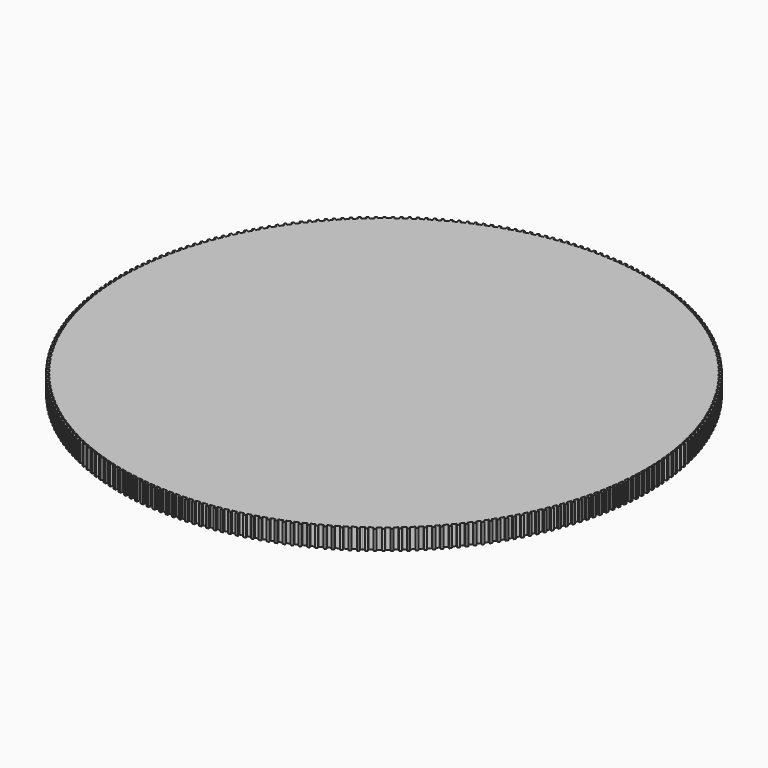
from build123d import *

# Parameters (mm, degrees)
F1_DEPTH = 6


with BuildPart() as f1:
    # F0 (on Top) → F1 (new body)
    with BuildSketch(Plane.XY):
        Polygon((0, -80.2141), (0.349991, -80.211), (0.349991, -79.461), (1.38683, -79.452), (1.63113, -79.4456), (1.64983, -80.1953), (2.34959, -80.177), (2.33089, -79.4273), (2.77325, -79.4157), (3.61121, -79.3791), (3.64859, -80.1281), (4.19807, -80.1042), (4.34781, -80.095), (4.31042, -79.3459), (5.58925, -79.2669), (5.64529, -80.0148), (6.34314, -79.9598), (6.28709, -79.212), (6.92575, -79.1617), (7.56343, -79.1003), (7.63809, -79.8466), (8.33488, -79.7795), (8.26021, -79.0332), (9.53333, -78.889), (9.62659, -79.6332), (9.77563, -79.6162), (10.3209, -79.5444), (10.2277, -78.8002), (11.0592, -78.6908), (11.4969, -78.6253), (11.6087, -79.3669), (12.301, -79.2635), (12.1892, -78.5219), (12.4309, -78.4857), (13.4536, -78.3146), (13.5838, -79.0532), (13.929, -78.9955), (14.2732, -78.9317), (14.1429, -78.1931), (15.1625, -78.0041), (15.4019, -77.9554), (15.5505, -78.6905), (16.2365, -78.5509), (16.0879, -77.8158), (16.5215, -77.7276), (17.3404, -77.5461), (17.5073, -78.2773), (18.0442, -78.1582), (18.1901, -78.1232), (18.0232, -77.392), (19.2689, -77.0921), (19.4539, -77.8189), (20.1317, -77.6436), (19.9466, -76.9168), (20.5668, -76.7564), (21.1841, -76.5852), (21.3873, -77.3072), (22.0618, -77.1201), (21.8587, -76.3981), (23.0874, -76.035), (23.3085, -76.7517), (23.4523, -76.7091), (23.9769, -76.5437), (23.7558, -75.8271), (24.5557, -75.5748), (24.9754, -75.4344), (25.2142, -76.1453), (25.8781, -75.9232), (25.6392, -75.2123), (25.871, -75.1348), (26.8484, -74.7887), (27.1049, -75.4934), (27.4348, -75.3766), (27.7627, -75.254), (27.5062, -74.5492), (28.4774, -74.1861), (28.7048, -74.0965), (28.9787, -74.7947), (29.6301, -74.5381), (29.356, -73.84), (29.7678, -73.6778), (30.5427, -73.3568), (30.834, -74.0479), (31.3421, -73.8375), (31.4797, -73.7776), (31.1884, -73.0865), (32.3631, -72.5749), (32.6715, -73.2585), (33.3085, -72.9682), (33, -72.2846), (33.583, -72.0189), (34.1612, -71.7431), (34.4866, -72.4188), (35.1184, -72.1175), (34.793, -71.4418), (35.94, -70.8708), (36.2822, -71.5382), (36.4164, -71.4713), (36.9043, -71.2173), (36.5621, -70.5499), (37.3061, -70.1626), (37.695, -69.9515), (38.0537, -70.6101), (38.6689, -70.2761), (38.3102, -69.6175), (38.5249, -69.5009), (39.4274, -68.9903), (39.8024, -69.6398), (40.107, -69.4674), (40.4086, -69.2898), (40.0336, -68.6403), (40.927, -68.114), (41.1354, -67.9863), (41.5265, -68.6263), (42.1233, -68.2605), (41.7323, -67.6206), (42.1095, -67.3894), (42.8169, -66.9387), (43.2238, -67.5687), (43.6877, -67.2732), (43.8128, -67.1904), (43.4059, -66.5604), (44.4739, -65.8525), (44.8963, -66.4722), (45.4732, -66.0757), (45.0508, -65.456), (45.5787, -65.0932), (46.1003, -64.7212), (46.5381, -65.3301), (47.108, -64.9236), (46.6702, -64.3147), (47.7006, -63.5532), (48.1535, -64.151), (48.274, -64.0618), (48.7104, -63.727), (48.2576, -63.1292), (48.923, -62.6185), (49.2693, -62.3431), (49.7369, -62.9294), (50.2847, -62.4937), (49.8171, -61.9073), (50.0084, -61.7552), (50.8084, -61.0957), (51.2905, -61.6702), (51.5606, -61.4476), (51.8268, -61.2202), (51.3447, -60.6457), (52.1331, -59.9723), (52.3162, -59.8104), (52.8124, -60.3727), (53.3367, -59.9088), (52.8404, -59.3465), (53.1718, -59.0533), (53.7902, -58.4867), (54.3004, -59.0365), (54.7059, -58.6649), (54.8147, -58.5616), (54.3046, -58.0118), (55.2334, -57.1293), (55.757, -57.6661), (56.2563, -57.1755), (55.7327, -56.6386), (56.1896, -56.1896), (56.6386, -55.7327), (57.1755, -56.2563), (57.6661, -55.757), (57.1293, -55.2334), (58.0118, -54.3046), (58.5616, -54.8147), (58.6649, -54.7059), (59.0365, -54.3004), (58.4867, -53.7902), (59.0533, -53.1718), (59.3465, -52.8404), (59.9088, -53.3367), (60.3727, -52.8124), (59.8104, -52.3162), (59.9723, -52.1331), (60.6457, -51.3447), (61.2202, -51.8268), (61.4476, -51.5606), (61.6702, -51.2905), (61.0957, -50.8084), (61.7552, -50.0084), (61.9073, -49.8171), (62.4937, -50.2847), (62.9294, -49.7369), (62.3431, -49.2693), (62.6185, -48.923), (63.1292, -48.2576), (63.727, -48.7104), (64.0618, -48.274), (64.151, -48.1535), (63.5532, -47.7006), (64.3147, -46.6702), (64.9236, -47.108), (65.3301, -46.5381), (64.7212, -46.1003), (65.0932, -45.5787), (65.456, -45.0508), (66.0757, -45.4732), (66.4722, -44.8963), (65.8525, -44.4739), (66.5604, -43.4059), (67.1904, -43.8128), (67.2732, -43.6877), (67.5687, -43.2238), (66.9387, -42.8169), (67.3894, -42.1095), (67.6206, -41.7323), (68.2605, -42.1233), (68.6263, -41.5265), (67.9863, -41.1354), (68.114, -40.927), (68.6403, -40.0336), (69.2898, -40.4086), (69.4674, -40.107), (69.6398, -39.8024), (68.9903, -39.4274), (69.5009, -38.5249), (69.6175, -38.3102), (70.2761, -38.6689), (70.6101, -38.0537), (69.9515, -37.695), (70.1626, -37.3061), (70.5499, -36.5621), (71.2173, -36.9043), (71.4713, -36.4164), (71.5382, -36.2822), (70.8708, -35.94), (71.4418, -34.793), (72.1175, -35.1184), (72.4188, -34.4866), (71.7431, -34.1612), (72.0189, -33.583), (72.2846, -33), (72.9682, -33.3085), (73.2585, -32.6715), (72.5749, -32.3631), (73.0865, -31.1884), (73.7776, -31.4797), (73.8375, -31.3421), (74.0479, -30.834), (73.3568, -30.5427), (73.6778, -29.7678), (73.84, -29.356), (74.5381, -29.6301), (74.7947, -28.9787), (74.0965, -28.7048), (74.1861, -28.4774), (74.5492, -27.5062), (75.254, -27.7627), (75.3766, -27.4348), (75.4934, -27.1049), (74.7887, -26.8484), (75.1348, -25.871), (75.2123, -25.6392), (75.9232, -25.8781), (76.1453, -25.2142), (75.4344, -24.9754), (75.5748, -24.5557), (75.8271, -23.7558), (76.5437, -23.9769), (76.7091, -23.4523), (76.7517, -23.3085), (76.035, -23.0874), (76.3981, -21.8587), (77.1201, -22.0618), (77.3072, -21.3873), (76.5852, -21.1841), (76.7564, -20.5668), (76.9168, -19.9466), (77.6436, -20.1317), (77.8189, -19.4539), (77.0921, -19.2689), (77.392, -18.0232), (78.1232, -18.1901), (78.1582, -18.0442), (78.2773, -17.5073), (77.5461, -17.3404), (77.7276, -16.5215), (77.8158, -16.0879), (78.5509, -16.2365), (78.6905, -15.5505), (77.9554, -15.4019), (78.0041, -15.1625), (78.1931, -14.1429), (78.9317, -14.2732), (78.9955, -13.929), (79.0532, -13.5838), (78.3146, -13.4536), (78.4857, -12.4309), (78.5219, -12.1892), (79.2635, -12.301), (79.3669, -11.6087), (78.6253, -11.4969), (78.6908, -11.0592), (78.8002, -10.2277), (79.5444, -10.3209), (79.6162, -9.77563), (79.6332, -9.62659), (78.889, -9.53333), (79.0332, -8.26021), (79.7795, -8.33488), (79.8466, -7.63809), (79.1003, -7.56343), (79.1617, -6.92575), (79.212, -6.28709), (79.9598, -6.34314), (80.0148, -5.64529), (79.2669, -5.58925), (79.3459, -4.31042), (80.095, -4.34781), (80.1042, -4.19807), (80.1281, -3.64859), (79.3791, -3.61121), (79.4157, -2.77325), (79.4273, -2.33089), (80.177, -2.34959), (80.1953, -1.64983), (79.4456, -1.63113), (79.452, -1.38683), (79.461, -0.349991), (80.211, -0.349991), (80.2141, 0), (80.211, 0.349991), (79.461, 0.349991), (79.452, 1.38683), (79.4456, 1.63113), (80.1953, 1.64983), (80.177, 2.34959), (79.4273, 2.33089), (79.4157, 2.77325), (79.3791, 3.61121), (80.1281, 3.64859), (80.1042, 4.19807), (80.095, 4.34781), (79.3459, 4.31042), (79.2669, 5.58925), (80.0148, 5.64529), (79.9598, 6.34314), (79.212, 6.28709), (79.1617, 6.92575), (79.1003, 7.56343), (79.8466, 7.63809), (79.7795, 8.33488), (79.0332, 8.26021), (78.889, 9.53333), (79.6332, 9.62659), (79.6162, 9.77563), (79.5444, 10.3209), (78.8002, 10.2277), (78.6908, 11.0592), (78.6253, 11.4969), (79.3669, 11.6087), (79.2635, 12.301), (78.5219, 12.1892), (78.4857, 12.4309), (78.3146, 13.4536), (79.0532, 13.5838), (78.9955, 13.929), (78.9317, 14.2732), (78.1931, 14.1429), (78.0041, 15.1625), (77.9554, 15.4019), (78.6905, 15.5505), (78.5509, 16.2365), (77.8158, 16.0879), (77.7276, 16.5215), (77.5461, 17.3404), (78.2773, 17.5073), (78.1582, 18.0442), (78.1232, 18.1901), (77.392, 18.0232), (77.0921, 19.2689), (77.8189, 19.4539), (77.6436, 20.1317), (76.9168, 19.9466), (76.7564, 20.5668), (76.5852, 21.1841), (77.3072, 21.3873), (77.1201, 22.0618), (76.3981, 21.8587), (76.035, 23.0874), (76.7517, 23.3085), (76.7091, 23.4523), (76.5437, 23.9769), (75.8271, 23.7558), (75.5748, 24.5557), (75.4344, 24.9754), (76.1453, 25.2142), (75.9232, 25.8781), (75.2123, 25.6392), (75.1348, 25.871), (74.7887, 26.8484), (75.4934, 27.1049), (75.3766, 27.4348), (75.254, 27.7627), (74.5492, 27.5062), (74.1861, 28.4774), (74.0965, 28.7048), (74.7947, 28.9787), (74.5381, 29.6301), (73.84, 29.356), (73.6778, 29.7678), (73.3568, 30.5427), (74.0479, 30.834), (73.8375, 31.3421), (73.7776, 31.4797), (73.0865, 31.1884), (72.5749, 32.3631), (73.2585, 32.6715), (72.9682, 33.3085), (72.2846, 33), (72.0189, 33.583), (71.7431, 34.1612), (72.4188, 34.4866), (72.1175, 35.1184), (71.4418, 34.793), (70.8708, 35.94), (71.5382, 36.2822), (71.4713, 36.4164), (71.2173, 36.9043), (70.5499, 36.5621), (70.1626, 37.3061), (69.9515, 37.695), (70.6101, 38.0537), (70.2761, 38.6689), (69.6175, 38.3102), (69.5009, 38.5249), (68.9903, 39.4274), (69.6398, 39.8024), (69.4674, 40.107), (69.2898, 40.4086), (68.6403, 40.0336), (68.114, 40.927), (67.9863, 41.1354), (68.6263, 41.5265), (68.2605, 42.1233), (67.6206, 41.7323), (67.3894, 42.1095), (66.9387, 42.8169), (67.5687, 43.2238), (67.2732, 43.6877), (67.1904, 43.8128), (66.5604, 43.4059), (65.8525, 44.4739), (66.4722, 44.8963), (66.0757, 45.4732), (65.456, 45.0508), (65.0932, 45.5787), (64.7212, 46.1003), (65.3301, 46.5381), (64.9236, 47.108), (64.3147, 46.6702), (63.5532, 47.7006), (64.151, 48.1535), (64.0618, 48.274), (63.727, 48.7104), (63.1292, 48.2576), (62.6185, 48.923), (62.3431, 49.2693), (62.9294, 49.7369), (62.4937, 50.2847), (61.9073, 49.8171), (61.7552, 50.0084), (61.0957, 50.8084), (61.6702, 51.2905), (61.4476, 51.5606), (61.2202, 51.8268), (60.6457, 51.3447), (59.9723, 52.1331), (59.8104, 52.3162), (60.3727, 52.8124), (59.9088, 53.3367), (59.3465, 52.8404), (59.0533, 53.1718), (58.4867, 53.7902), (59.0365, 54.3004), (58.6649, 54.7059), (58.5616, 54.8147), (58.0118, 54.3046), (57.1293, 55.2334), (57.6661, 55.757), (57.1755, 56.2563), (56.6386, 55.7327), (56.1896, 56.1896), (55.7327, 56.6386), (56.2563, 57.1755), (55.757, 57.6661), (55.2334, 57.1293), (54.3046, 58.0118), (54.8147, 58.5616), (54.7059, 58.6649), (54.3004, 59.0365), (53.7902, 58.4867), (53.1718, 59.0533), (52.8404, 59.3465), (53.3367, 59.9088), (52.8124, 60.3727), (52.3162, 59.8104), (52.1331, 59.9723), (51.3447, 60.6457), (51.8268, 61.2202), (51.5606, 61.4476), (51.2905, 61.6702), (50.8084, 61.0957), (50.0084, 61.7552), (49.8171, 61.9073), (50.2847, 62.4937), (49.7369, 62.9294), (49.2693, 62.3431), (48.923, 62.6185), (48.2576, 63.1292), (48.7104, 63.727), (48.274, 64.0618), (48.1535, 64.151), (47.7006, 63.5532), (46.6702, 64.3147), (47.108, 64.9236), (46.5381, 65.3301), (46.1003, 64.7212), (45.5787, 65.0932), (45.0508, 65.456), (45.4732, 66.0757), (44.8963, 66.4722), (44.4739, 65.8525), (43.4059, 66.5604), (43.8128, 67.1904), (43.6877, 67.2732), (43.2238, 67.5687), (42.8169, 66.9387), (42.1095, 67.3894), (41.7323, 67.6206), (42.1233, 68.2605), (41.5265, 68.6263), (41.1354, 67.9863), (40.927, 68.114), (40.0336, 68.6403), (40.4086, 69.2898), (40.107, 69.4674), (39.8024, 69.6398), (39.4274, 68.9903), (38.5249, 69.5009), (38.3102, 69.6175), (38.6689, 70.2761), (38.0537, 70.6101), (37.695, 69.9515), (37.3061, 70.1626), (36.5621, 70.5499), (36.9043, 71.2173), (36.4164, 71.4713), (36.2822, 71.5382), (35.94, 70.8708), (34.793, 71.4418), (35.1184, 72.1175), (34.4866, 72.4188), (34.1612, 71.7431), (33.583, 72.0189), (33, 72.2846), (33.3085, 72.9682), (32.6715, 73.2585), (32.3631, 72.5749), (31.1884, 73.0865), (31.4797, 73.7776), (31.3421, 73.8375), (30.834, 74.0479), (30.5427, 73.3568), (29.7678, 73.6778), (29.356, 73.84), (29.6301, 74.5381), (28.9787, 74.7947), (28.7048, 74.0965), (28.4774, 74.1861), (27.5062, 74.5492), (27.7627, 75.254), (27.4348, 75.3766), (27.1049, 75.4934), (26.8484, 74.7887), (25.871, 75.1348), (25.6392, 75.2123), (25.8781, 75.9232), (25.2142, 76.1453), (24.9754, 75.4344), (24.5557, 75.5748), (23.7558, 75.8271), (23.9769, 76.5437), (23.4523, 76.7091), (23.3085, 76.7517), (23.0874, 76.035), (21.8587, 76.3981), (22.0618, 77.1201), (21.3873, 77.3072), (21.1841, 76.5852), (20.5668, 76.7564), (19.9466, 76.9168), (20.1317, 77.6436), (19.4539, 77.8189), (19.2689, 77.0921), (18.0232, 77.392), (18.1901, 78.1232), (18.0442, 78.1582), (17.5073, 78.2773), (17.3404, 77.5461), (16.5215, 77.7276), (16.0879, 77.8158), (16.2365, 78.5509), (15.5505, 78.6905), (15.4019, 77.9554), (15.1625, 78.0041), (14.1429, 78.1931), (14.2732, 78.9317), (13.929, 78.9955), (13.5838, 79.0532), (13.4536, 78.3146), (12.4309, 78.4857), (12.1892, 78.5219), (12.301, 79.2635), (11.6087, 79.3669), (11.4969, 78.6253), (11.0592, 78.6908), (10.2277, 78.8002), (10.3209, 79.5444), (9.77563, 79.6162), (9.62659, 79.6332), (9.53333, 78.889), (8.26021, 79.0332), (8.33488, 79.7795), (7.63809, 79.8466), (7.56343, 79.1003), (6.92575, 79.1617), (6.28709, 79.212), (6.34314, 79.9598), (5.64529, 80.0148), (5.58925, 79.2669), (4.31042, 79.3459), (4.34781, 80.095), (4.19807, 80.1042), (3.64859, 80.1281), (3.61121, 79.3791), (2.77325, 79.4157), (2.33089, 79.4273), (2.34959, 80.177), (1.64983, 80.1953), (1.63113, 79.4456), (1.38683, 79.452), (0.349991, 79.461), (0.349991, 80.211), (0, 80.2141), (-0.349991, 80.211), (-0.349991, 79.461), (-1.38683, 79.452), (-1.63113, 79.4456), (-1.64983, 80.1953), (-2.34959, 80.177), (-2.33089, 79.4273), (-2.77325, 79.4157), (-3.61121, 79.3791), (-3.64859, 80.1281), (-4.19807, 80.1042), (-4.34781, 80.095), (-4.31042, 79.3459), (-5.58925, 79.2669), (-5.64529, 80.0148), (-6.34314, 79.9598), (-6.28709, 79.212), (-6.92575, 79.1617), (-7.56343, 79.1003), (-7.63809, 79.8466), (-8.33488, 79.7795), (-8.26021, 79.0332), (-9.53333, 78.889), (-9.62659, 79.6332), (-9.77563, 79.6162), (-10.3209, 79.5444), (-10.2277, 78.8002), (-11.0592, 78.6908), (-11.4969, 78.6253), (-11.6087, 79.3669), (-12.301, 79.2635), (-12.1892, 78.5219), (-12.4309, 78.4857), (-13.4536, 78.3146), (-13.5838, 79.0532), (-13.929, 78.9955), (-14.2732, 78.9317), (-14.1429, 78.1931), (-15.1625, 78.0041), (-15.4019, 77.9554), (-15.5505, 78.6905), (-16.2365, 78.5509), (-16.0879, 77.8158), (-16.5215, 77.7276), (-17.3404, 77.5461), (-17.5073, 78.2773), (-18.0442, 78.1582), (-18.1901, 78.1232), (-18.0232, 77.392), (-19.2689, 77.0921), (-19.4539, 77.8189), (-20.1317, 77.6436), (-19.9466, 76.9168), (-20.5668, 76.7564), (-21.1841, 76.5852), (-21.3873, 77.3072), (-22.0618, 77.1201), (-21.8587, 76.3981), (-23.0874, 76.035), (-23.3085, 76.7517), (-23.4523, 76.7091), (-23.9769, 76.5437), (-23.7558, 75.8271), (-24.5557, 75.5748), (-24.9754, 75.4344), (-25.2142, 76.1453), (-25.8781, 75.9232), (-25.6392, 75.2123), (-25.871, 75.1348), (-26.8484, 74.7887), (-27.1049, 75.4934), (-27.4348, 75.3766), (-27.7627, 75.254), (-27.5062, 74.5492), (-28.4774, 74.1861), (-28.7048, 74.0965), (-28.9787, 74.7947), (-29.6301, 74.5381), (-29.356, 73.84), (-29.7678, 73.6778), (-30.5427, 73.3568), (-30.834, 74.0479), (-31.3421, 73.8375), (-31.4797, 73.7776), (-31.1884, 73.0865), (-32.3631, 72.5749), (-32.6715, 73.2585), (-33.3085, 72.9682), (-33, 72.2846), (-33.583, 72.0189), (-34.1612, 71.7431), (-34.4866, 72.4188), (-35.1184, 72.1175), (-34.793, 71.4418), (-35.94, 70.8708), (-36.2822, 71.5382), (-36.4164, 71.4713), (-36.9043, 71.2173), (-36.5621, 70.5499), (-37.3061, 70.1626), (-37.695, 69.9515), (-38.0537, 70.6101), (-38.6689, 70.2761), (-38.3102, 69.6175), (-38.5249, 69.5009), (-39.4274, 68.9903), (-39.8024, 69.6398), (-40.107, 69.4674), (-40.4086, 69.2898), (-40.0336, 68.6403), (-40.927, 68.114), (-41.1354, 67.9863), (-41.5265, 68.6263), (-42.1233, 68.2605), (-41.7323, 67.6206), (-42.1095, 67.3894), (-42.8169, 66.9387), (-43.2238, 67.5687), (-43.6877, 67.2732), (-43.8128, 67.1904), (-43.4059, 66.5604), (-44.4739, 65.8525), (-44.8963, 66.4722), (-45.4732, 66.0757), (-45.0508, 65.456), (-45.5787, 65.0932), (-46.1003, 64.7212), (-46.5381, 65.3301), (-47.108, 64.9236), (-46.6702, 64.3147), (-47.7006, 63.5532), (-48.1535, 64.151), (-48.274, 64.0618), (-48.7104, 63.727), (-48.2576, 63.1292), (-48.923, 62.6185), (-49.2693, 62.3431), (-49.7369, 62.9294), (-50.2847, 62.4937), (-49.8171, 61.9073), (-50.0084, 61.7552), (-50.8084, 61.0957), (-51.2905, 61.6702), (-51.5606, 61.4476), (-51.8268, 61.2202), (-51.3447, 60.6457), (-52.1331, 59.9723), (-52.3162, 59.8104), (-52.8124, 60.3727), (-53.3367, 59.9088), (-52.8404, 59.3465), (-53.1718, 59.0533), (-53.7902, 58.4867), (-54.3004, 59.0365), (-54.7059, 58.6649), (-54.8147, 58.5616), (-54.3046, 58.0118), (-55.2334, 57.1293), (-55.757, 57.6661), (-56.2563, 57.1755), (-55.7327, 56.6386), (-56.1896, 56.1896), (-56.6386, 55.7327), (-57.1755, 56.2563), (-57.6661, 55.757), (-57.1293, 55.2334), (-58.0118, 54.3046), (-58.5616, 54.8147), (-58.6649, 54.7059), (-59.0365, 54.3004), (-58.4867, 53.7902), (-59.0533, 53.1718), (-59.3465, 52.8404), (-59.9088, 53.3367), (-60.3727, 52.8124), (-59.8104, 52.3162), (-59.9723, 52.1331), (-60.6457, 51.3447), (-61.2202, 51.8268), (-61.4476, 51.5606), (-61.6702, 51.2905), (-61.0957, 50.8084), (-61.7552, 50.0084), (-61.9073, 49.8171), (-62.4937, 50.2847), (-62.9294, 49.7369), (-62.3431, 49.2693), (-62.6185, 48.923), (-63.1292, 48.2576), (-63.727, 48.7104), (-64.0618, 48.274), (-64.151, 48.1535), (-63.5532, 47.7006), (-64.3147, 46.6702), (-64.9236, 47.108), (-65.3301, 46.5381), (-64.7212, 46.1003), (-65.0932, 45.5787), (-65.456, 45.0508), (-66.0757, 45.4732), (-66.4722, 44.8963), (-65.8525, 44.4739), (-66.5604, 43.4059), (-67.1904, 43.8128), (-67.2732, 43.6877), (-67.5687, 43.2238), (-66.9387, 42.8169), (-67.3894, 42.1095), (-67.6206, 41.7323), (-68.2605, 42.1233), (-68.6263, 41.5265), (-67.9863, 41.1354), (-68.114, 40.927), (-68.6403, 40.0336), (-69.2898, 40.4086), (-69.4674, 40.107), (-69.6398, 39.8024), (-68.9903, 39.4274), (-69.5009, 38.5249), (-69.6175, 38.3102), (-70.2761, 38.6689), (-70.6101, 38.0537), (-69.9515, 37.695), (-70.1626, 37.3061), (-70.5499, 36.5621), (-71.2173, 36.9043), (-71.4713, 36.4164), (-71.5382, 36.2822), (-70.8708, 35.94), (-71.4418, 34.793), (-72.1175, 35.1184), (-72.4188, 34.4866), (-71.7431, 34.1612), (-72.0189, 33.583), (-72.2846, 33), (-72.9682, 33.3085), (-73.2585, 32.6715), (-72.5749, 32.3631), (-73.0865, 31.1884), (-73.7776, 31.4797), (-73.8375, 31.3421), (-74.0479, 30.834), (-73.3568, 30.5427), (-73.6778, 29.7678), (-73.84, 29.356), (-74.5381, 29.6301), (-74.7947, 28.9787), (-74.0965, 28.7048), (-74.1861, 28.4774), (-74.5492, 27.5062), (-75.254, 27.7627), (-75.3766, 27.4348), (-75.4934, 27.1049), (-74.7887, 26.8484), (-75.1348, 25.871), (-75.2123, 25.6392), (-75.9232, 25.8781), (-76.1453, 25.2142), (-75.4344, 24.9754), (-75.5748, 24.5557), (-75.8271, 23.7558), (-76.5437, 23.9769), (-76.7091, 23.4523), (-76.7517, 23.3085), (-76.035, 23.0874), (-76.3981, 21.8587), (-77.1201, 22.0618), (-77.3072, 21.3873), (-76.5852, 21.1841), (-76.7564, 20.5668), (-76.9168, 19.9466), (-77.6436, 20.1317), (-77.8189, 19.4539), (-77.0921, 19.2689), (-77.392, 18.0232), (-78.1232, 18.1901), (-78.1582, 18.0442), (-78.2773, 17.5073), (-77.5461, 17.3404), (-77.7276, 16.5215), (-77.8158, 16.0879), (-78.5509, 16.2365), (-78.6905, 15.5505), (-77.9554, 15.4019), (-78.0041, 15.1625), (-78.1931, 14.1429), (-78.9317, 14.2732), (-78.9955, 13.929), (-79.0532, 13.5838), (-78.3146, 13.4536), (-78.4857, 12.4309), (-78.5219, 12.1892), (-79.2635, 12.301), (-79.3669, 11.6087), (-78.6253, 11.4969), (-78.6908, 11.0592), (-78.8002, 10.2277), (-79.5444, 10.3209), (-79.6162, 9.77563), (-79.6332, 9.62659), (-78.889, 9.53333), (-79.0332, 8.26021), (-79.7795, 8.33488), (-79.8466, 7.63809), (-79.1003, 7.56343), (-79.1617, 6.92575), (-79.212, 6.28709), (-79.9598, 6.34314), (-80.0148, 5.64529), (-79.2669, 5.58925), (-79.3459, 4.31042), (-80.095, 4.34781), (-80.1042, 4.19807), (-80.1281, 3.64859), (-79.3791, 3.61121), (-79.4157, 2.77325), (-79.4273, 2.33089), (-80.177, 2.34959), (-80.1953, 1.64983), (-79.4456, 1.63113), (-79.452, 1.38683), (-79.461, 0.349991), (-80.211, 0.349991), (-80.2141, 0), (-80.211, -0.349991), (-79.461, -0.349991), (-79.452, -1.38683), (-79.4456, -1.63113), (-80.1953, -1.64983), (-80.177, -2.34959), (-79.4273, -2.33089), (-79.4157, -2.77325), (-79.3791, -3.61121), (-80.1281, -3.64859), (-80.1042, -4.19807), (-80.095, -4.34781), (-79.3459, -4.31042), (-79.2669, -5.58925), (-80.0148, -5.64529), (-79.9598, -6.34314), (-79.212, -6.28709), (-79.1617, -6.92575), (-79.1003, -7.56343), (-79.8466, -7.63809), (-79.7795, -8.33488), (-79.0332, -8.26021), (-78.889, -9.53333), (-79.6332, -9.62659), (-79.6162, -9.77563), (-79.5444, -10.3209), (-78.8002, -10.2277), (-78.6908, -11.0592), (-78.6253, -11.4969), (-79.3669, -11.6087), (-79.2635, -12.301), (-78.5219, -12.1892), (-78.4857, -12.4309), (-78.3146, -13.4536), (-79.0532, -13.5838), (-78.9955, -13.929), (-78.9317, -14.2732), (-78.1931, -14.1429), (-78.0041, -15.1625), (-77.9554, -15.4019), (-78.6905, -15.5505), (-78.5509, -16.2365), (-77.8158, -16.0879), (-77.7276, -16.5215), (-77.5461, -17.3404), (-78.2773, -17.5073), (-78.1582, -18.0442), (-78.1232, -18.1901), (-77.392, -18.0232), (-77.0921, -19.2689), (-77.8189, -19.4539), (-77.6436, -20.1317), (-76.9168, -19.9466), (-76.7564, -20.5668), (-76.5852, -21.1841), (-77.3072, -21.3873), (-77.1201, -22.0618), (-76.3981, -21.8587), (-76.035, -23.0874), (-76.7517, -23.3085), (-76.7091, -23.4523), (-76.5437, -23.9769), (-75.8271, -23.7558), (-75.5748, -24.5557), (-75.4344, -24.9754), (-76.1453, -25.2142), (-75.9232, -25.8781), (-75.2123, -25.6392), (-75.1348, -25.871), (-74.7887, -26.8484), (-75.4934, -27.1049), (-75.3766, -27.4348), (-75.254, -27.7627), (-74.5492, -27.5062), (-74.1861, -28.4774), (-74.0965, -28.7048), (-74.7947, -28.9787), (-74.5381, -29.6301), (-73.84, -29.356), (-73.6778, -29.7678), (-73.3568, -30.5427), (-74.0479, -30.834), (-73.8375, -31.3421), (-73.7776, -31.4797), (-73.0865, -31.1884), (-72.5749, -32.3631), (-73.2585, -32.6715), (-72.9682, -33.3085), (-72.2846, -33), (-72.0189, -33.583), (-71.7431, -34.1612), (-72.4188, -34.4866), (-72.1175, -35.1184), (-71.4418, -34.793), (-70.8708, -35.94), (-71.5382, -36.2822), (-71.4713, -36.4164), (-71.2173, -36.9043), (-70.5499, -36.5621), (-70.1626, -37.3061), (-69.9515, -37.695), (-70.6101, -38.0537), (-70.2761, -38.6689), (-69.6175, -38.3102), (-69.5009, -38.5249), (-68.9903, -39.4274), (-69.6398, -39.8024), (-69.4674, -40.107), (-69.2898, -40.4086), (-68.6403, -40.0336), (-68.114, -40.927), (-67.9863, -41.1354), (-68.6263, -41.5265), (-68.2605, -42.1233), (-67.6206, -41.7323), (-67.3894, -42.1095), (-66.9387, -42.8169), (-67.5687, -43.2238), (-67.2732, -43.6877), (-67.1904, -43.8128), (-66.5604, -43.4059), (-65.8525, -44.4739), (-66.4722, -44.8963), (-66.0757, -45.4732), (-65.456, -45.0508), (-65.0932, -45.5787), (-64.7212, -46.1003), (-65.3301, -46.5381), (-64.9236, -47.108), (-64.3147, -46.6702), (-63.5532, -47.7006), (-64.151, -48.1535), (-64.0618, -48.274), (-63.727, -48.7104), (-63.1292, -48.2576), (-62.6185, -48.923), (-62.3431, -49.2693), (-62.9294, -49.7369), (-62.4937, -50.2847), (-61.9073, -49.8171), (-61.7552, -50.0084), (-61.0957, -50.8084), (-61.6702, -51.2905), (-61.4476, -51.5606), (-61.2202, -51.8268), (-60.6457, -51.3447), (-59.9723, -52.1331), (-59.8104, -52.3162), (-60.3727, -52.8124), (-59.9088, -53.3367), (-59.3465, -52.8404), (-59.0533, -53.1718), (-58.4867, -53.7902), (-59.0365, -54.3004), (-58.6649, -54.7059), (-58.5616, -54.8147), (-58.0118, -54.3046), (-57.1293, -55.2334), (-57.6661, -55.757), (-57.1755, -56.2563), (-56.6386, -55.7327), (-56.1896, -56.1896), (-55.7327, -56.6386), (-56.2563, -57.1755), (-55.757, -57.6661), (-55.2334, -57.1293), (-54.3046, -58.0118), (-54.8147, -58.5616), (-54.7059, -58.6649), (-54.3004, -59.0365), (-53.7902, -58.4867), (-53.1718, -59.0533), (-52.8404, -59.3465), (-53.3367, -59.9088), (-52.8124, -60.3727), (-52.3162, -59.8104), (-52.1331, -59.9723), (-51.3447, -60.6457), (-51.8268, -61.2202), (-51.5606, -61.4476), (-51.2905, -61.6702), (-50.8084, -61.0957), (-50.0084, -61.7552), (-49.8171, -61.9073), (-50.2847, -62.4937), (-49.7369, -62.9294), (-49.2693, -62.3431), (-48.923, -62.6185), (-48.2576, -63.1292), (-48.7104, -63.727), (-48.274, -64.0618), (-48.1535, -64.151), (-47.7006, -63.5532), (-46.6702, -64.3147), (-47.108, -64.9236), (-46.5381, -65.3301), (-46.1003, -64.7212), (-45.5787, -65.0932), (-45.0508, -65.456), (-45.4732, -66.0757), (-44.8963, -66.4722), (-44.4739, -65.8525), (-43.4059, -66.5604), (-43.8128, -67.1904), (-43.6877, -67.2732), (-43.2238, -67.5687), (-42.8169, -66.9387), (-42.1095, -67.3894), (-41.7323, -67.6206), (-42.1233, -68.2605), (-41.5265, -68.6263), (-41.1354, -67.9863), (-40.927, -68.114), (-40.0336, -68.6403), (-40.4086, -69.2898), (-40.107, -69.4674), (-39.8024, -69.6398), (-39.4274, -68.9903), (-38.5249, -69.5009), (-38.3102, -69.6175), (-38.6689, -70.2761), (-38.0537, -70.6101), (-37.695, -69.9515), (-37.3061, -70.1626), (-36.5621, -70.5499), (-36.9043, -71.2173), (-36.4164, -71.4713), (-36.2822, -71.5382), (-35.94, -70.8708), (-34.793, -71.4418), (-35.1184, -72.1175), (-34.4866, -72.4188), (-34.1612, -71.7431), (-33.583, -72.0189), (-33, -72.2846), (-33.3085, -72.9682), (-32.6715, -73.2585), (-32.3631, -72.5749), (-31.1884, -73.0865), (-31.4797, -73.7776), (-31.3421, -73.8375), (-30.834, -74.0479), (-30.5427, -73.3568), (-29.7678, -73.6778), (-29.356, -73.84), (-29.6301, -74.5381), (-28.9787, -74.7947), (-28.7048, -74.0965), (-28.4774, -74.1861), (-27.5062, -74.5492), (-27.7627, -75.254), (-27.4348, -75.3766), (-27.1049, -75.4934), (-26.8484, -74.7887), (-25.871, -75.1348), (-25.6392, -75.2123), (-25.8781, -75.9232), (-25.2142, -76.1453), (-24.9754, -75.4344), (-24.5557, -75.5748), (-23.7558, -75.8271), (-23.9769, -76.5437), (-23.4523, -76.7091), (-23.3085, -76.7517), (-23.0874, -76.035), (-21.8587, -76.3981), (-22.0618, -77.1201), (-21.3873, -77.3072), (-21.1841, -76.5852), (-20.5668, -76.7564), (-19.9466, -76.9168), (-20.1317, -77.6436), (-19.4539, -77.8189), (-19.2689, -77.0921), (-18.0232, -77.392), (-18.1901, -78.1232), (-18.0442, -78.1582), (-17.5073, -78.2773), (-17.3404, -77.5461), (-16.5215, -77.7276), (-16.0879, -77.8158), (-16.2365, -78.5509), (-15.5505, -78.6905), (-15.4019, -77.9554), (-15.1625, -78.0041), (-14.1429, -78.1931), (-14.2732, -78.9317), (-13.929, -78.9955), (-13.5838, -79.0532), (-13.4536, -78.3146), (-12.4309, -78.4857), (-12.1892, -78.5219), (-12.301, -79.2635), (-11.6087, -79.3669), (-11.4969, -78.6253), (-11.0592, -78.6908), (-10.2277, -78.8002), (-10.3209, -79.5444), (-9.77563, -79.6162), (-9.62659, -79.6332), (-9.53333, -78.889), (-8.26021, -79.0332), (-8.33488, -79.7795), (-7.63809, -79.8466), (-7.56343, -79.1003), (-6.92575, -79.1617), (-6.28709, -79.212), (-6.34314, -79.9598), (-5.64529, -80.0148), (-5.58925, -79.2669), (-4.31042, -79.3459), (-4.34781, -80.095), (-4.19807, -80.1042), (-3.64859, -80.1281), (-3.61121, -79.3791), (-2.77325, -79.4157), (-2.33089, -79.4273), (-2.34959, -80.177), (-1.64983, -80.1953), (-1.63113, -79.4456), (-1.38683, -79.452), (-0.349991, -79.461), (-0.349991, -80.211), align=None)
    extrude(amount=F1_DEPTH)


solid = f1.part
